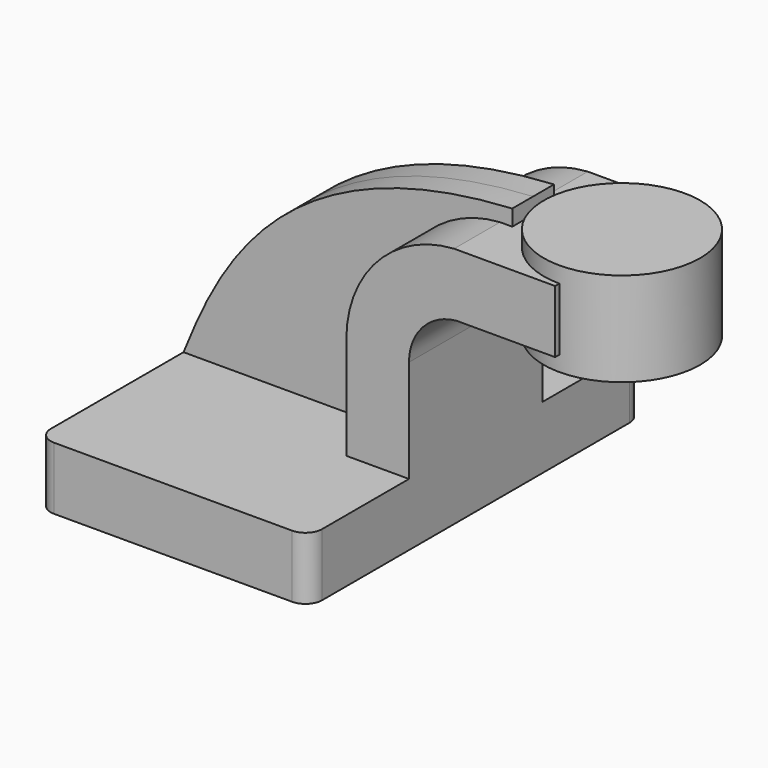
from build123d import *

# Parameters (mm, degrees)
F1_DEPTH = 63.5
F0_W     = 27.0158293307
F0_H     = 19.05
F2_DEPTH = 25.4
F3_DEPTH = 7.9375
F5_R     = 5.08


with BuildPart() as f1:
    # F0 (on Front) → F1 (new body, symmetric)
    with BuildSketch(Plane.XZ):
        Polygon((41.275, -9.525), (41.275, 9.525), (22.225, 9.525), (-41.275, 9.525), (-41.275, -9.525), align=None)
    extrude(amount=F1_DEPTH, both=True)

    # F0 (on Front) → F2 (join, symmetric)
    with BuildSketch(Plane.XZ):
        with BuildLine():
            Line((22.225, 9.525), (41.275, 9.525))
            Line((41.275, 9.525), (41.275, 40.7823575326))
            ThreePointArc((41.275, 40.7823575326), (45.4239723265, 51.4835677445), (55.7022, 56.5912))
            Line((55.7022, 56.5912), (58.7091706693, 56.5912))
            Line((58.7091706693, 56.5912), (58.7091706693, 75.6412))
            Line((58.7091706693, 75.6412), (55.0013430169, 75.6412))
            ThreePointArc((55.0013430169, 75.6412), (31.7059685768, 64.7063390142), (22.225, 40.7823575326))
            Line((22.225, 40.7823575326), (22.225, 9.525))
        make_face()
        with Locations((72.2170853347, 66.1162)):
            Rectangle(F0_W, F0_H)
    extrude(amount=F2_DEPTH, both=True)

    # F0 (on Front) → F3 (join, symmetric)
    with BuildSketch(Plane.XZ):
        with BuildLine():
            Line((-41.275, 9.525), (22.225, 9.525))
            Line((22.225, 9.525), (22.225, 40.7823575326))
            ThreePointArc((22.225, 40.7823575326), (31.7059685768, 64.7063390142), (55.0013430169, 75.6412))
            Line((55.0013430169, 75.6412), (58.7091706693, 75.6412))
            Line((58.7091706693, 75.6412), (58.7091706693, 80.5059267402))
            add(Edge.make_bspline(
                [(-41.275, 9.525), (-31.0757625848, 34.9992662668), (-12.4977082014, 76.490201056), (58.7091706693, 80.5059267402)],
                knots=[0, 0, 0, 0, 122.6178059881, 122.6178059881, 122.6178059881, 122.6178059881], degree=3))
        make_face()
    extrude(amount=F3_DEPTH, both=True)

    # F0 (on Front) → F4 (revolve)
    with BuildSketch(Plane.XZ):
        Polygon((109.5091706693, 80.5059267402), (85.725, 80.5059267402), (85.725, 75.6412), (85.725, 56.5912), (85.725, 51.9309267402), (109.5091706693, 51.9309267402), align=None)
    revolve(axis=Axis((85.725, 0, 66.2184267402), (0, 0, -1)))

    # F5
    f5_edges = [f1.edges().sort_by_distance(p)[0] for p in [
        (41.275, 63.5, 0),
        (-41.275, 63.5, 0),
        (-41.275, -63.5, 0),
        (41.275, -63.5, 0),
    ]]
    fillet(f5_edges, radius=F5_R)


solid = f1.part
